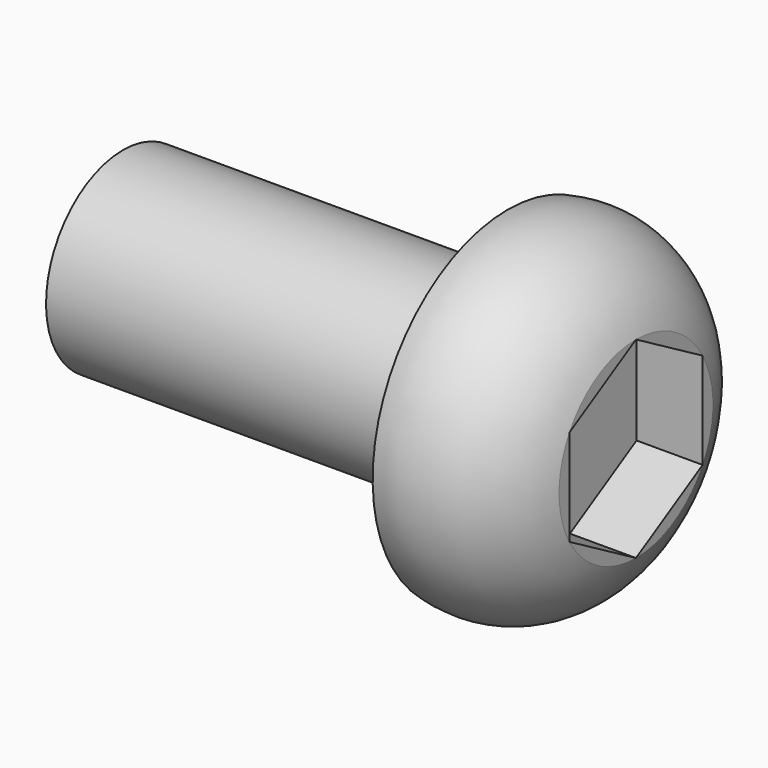
from build123d import *

# Parameters (mm, degrees)
F3_DEPTH = 1.03


with BuildPart() as f1:
    # F0 (on Front) → F1 (revolve)
    with BuildSketch(Plane.XZ):
        with BuildLine():
            Line((-2.683327, 0), (5.316673, 0))
            Line((5.316673, 0), (5.316673, 1.5))
            ThreePointArc((5.316673, 1.5), (4.537199, 2.455789), (3.316673, 2.633061))
            Line((3.316673, 2.633061), (3.316673, 1.5))
            Line((3.316673, 1.5), (-2.683327, 1.5))
            Line((-2.683327, 1.5), (-2.683327, 0))
        make_face()
    revolve(axis=Axis((1.316673, 0, 0), (-1, 0, 0)))

    # F2 (on face) → F3 (cut)
    with BuildSketch(Plane.YZ.offset(5.316673)):
        Polygon((0, -1.5), (1.299038, -0.75), (1.299038, 0.75), (0, 1.5), (-1.299038, 0.75), (-1.299038, -0.75), align=None)
    extrude(amount=-F3_DEPTH, mode=Mode.SUBTRACT)


solid = f1.part
